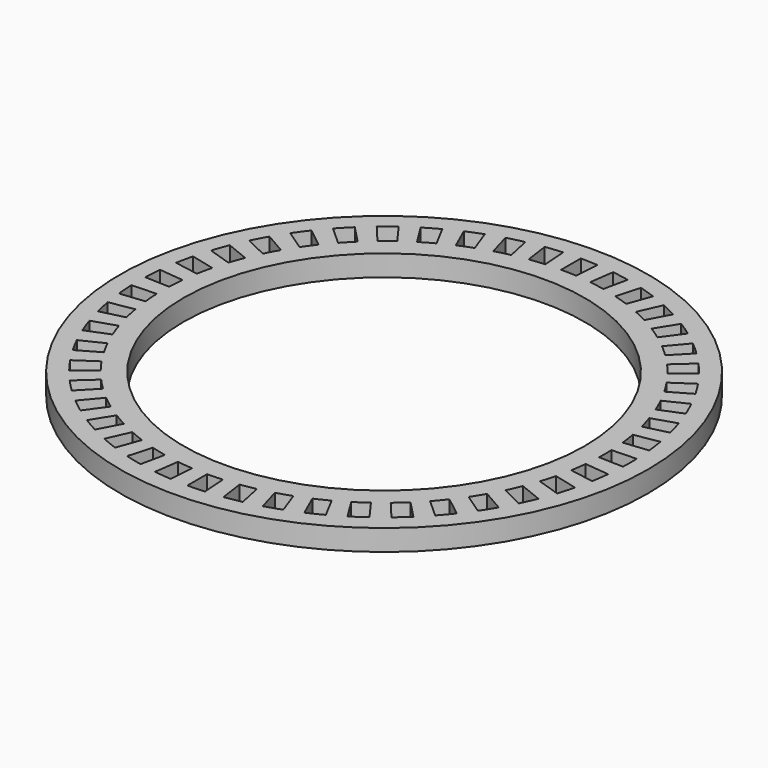
from build123d import *

# Parameters (mm, degrees)
F0_R     = 50
F1_DEPTH = 5
F2_R     = 125
F2_R_2   = 40.44952
F3_DEPTH = 10
F5_DEPTH = 25
F6_R     = 95
F7_DEPTH = 25


with BuildPart() as f1:
    # F0 (on Top) → F1 (new body)
    with BuildSketch(Plane.XY):
        Circle(F0_R)
        Polygon((-10, 30), (0, 30), (10, 30), (10, 10), (30, 10), (30, 0), (30, -10), (10, -10), (10, -30), (0, -30), (-10, -30), (-10, -10), (-30, -10), (-30, 0), (-30, 10), (-10, 10), align=None, mode=Mode.SUBTRACT)
    extrude(amount=F1_DEPTH)

    # F2 (on face) → F3 (join)
    with BuildSketch(Plane.XY.offset(5)):
        Circle(F2_R)
        Circle(F2_R_2, mode=Mode.SUBTRACT)
    extrude(amount=-F3_DEPTH)

    # F4 (on face) → F5 (cut)
    with BuildSketch(Plane.XY.offset(5)):
        with BuildLine():
            Line((0, 116.456337), (0, 104.802647))
            ThreePointArc((0, 104.802647), (3.65756, 104.738804), (7.310663, 104.547353))
            Line((7.310663, 104.547353), (8.123583, 116.172655))
            ThreePointArc((8.123583, 116.172655), (4.064268, 116.385395), (0, 116.456337))
        make_face()
        with BuildLine():
            ThreePointArc((-14.585709, 103.782715), (-10.95486, 104.228527), (-7.310663, 104.547353))
            Line((-7.310663, 104.547353), (-8.123583, 116.172655))
            ThreePointArc((-8.123583, 116.172655), (-12.173002, 115.818377), (-16.20759, 115.322992))
            Line((-16.20759, 115.322992), (-14.585709, 103.782715))
        make_face()
        with BuildLine():
            ThreePointArc((-28.887525, 100.74277), (-25.354055, 101.689561), (-21.789696, 102.512458))
            Line((-21.789696, 102.512458), (-24.212634, 113.911487))
            ThreePointArc((-24.212634, 113.911487), (-28.173338, 112.997086), (-32.099717, 111.945016))
            Line((-32.099717, 111.945016), (-28.887525, 100.74277))
        make_face()
        with BuildLine():
            ThreePointArc((-42.627077, 95.741982), (-39.259763, 97.171322), (-35.844616, 98.482274))
            Line((-35.844616, 98.482274), (-39.830413, 109.433161))
            ThreePointArc((-39.830413, 109.433161), (-43.625312, 107.976436), (-47.36706, 106.388158))
            Line((-47.36706, 106.388158), (-42.627077, 95.741982))
        make_face()
        with BuildLine():
            ThreePointArc((-55.536942, 88.877685), (-52.401324, 90.761755), (-49.201863, 92.535245))
            Line((-49.201863, 92.535245), (-54.672939, 102.824843))
            ThreePointArc((-54.672939, 102.824843), (-58.228169, 100.854147), (-61.712457, 98.760575))
            Line((-61.712457, 98.760575), (-55.536942, 88.877685))
        make_face()
        with BuildLine():
            ThreePointArc((-67.365843, 80.283486), (-64.522952, 82.585613), (-61.60145, 84.787123))
            Line((-61.60145, 84.787123), (-68.451318, 94.215156))
            ThreePointArc((-68.451318, 94.215156), (-71.69768, 91.768846), (-74.856691, 89.21073))
            Line((-74.856691, 89.21073), (-67.365843, 80.283486))
        make_face()
        with BuildLine():
            ThreePointArc((-77.883545, 70.126659), (-75.388715, 72.802036), (-72.802036, 75.388715))
            Line((-72.802036, 75.388715), (-80.897369, 83.771678))
            ThreePointArc((-80.897369, 83.771678), (-83.771678, 80.897369), (-86.543924, 77.9245))
            Line((-86.543924, 77.9245), (-77.883545, 70.126659))
        make_face()
        with BuildLine():
            ThreePointArc((-86.885332, 58.604897), (-84.787123, 61.60145), (-82.585613, 64.522952))
            Line((-82.585613, 64.522952), (-91.768846, 71.69768))
            ThreePointArc((-91.768846, 71.69768), (-94.215156, 68.451318), (-96.546679, 65.121557))
            Line((-96.546679, 65.121557), (-86.885332, 58.604897))
        make_face()
        with BuildLine():
            ThreePointArc((-94.195995, 45.942457), (-92.535245, 49.201863), (-90.761755, 52.401324))
            Line((-90.761755, 52.401324), (-100.854147, 58.228169))
            ThreePointArc((-100.854147, 58.228169), (-102.824843, 54.672939), (-104.670263, 51.051098))
            Line((-104.670263, 51.051098), (-94.195995, 45.942457))
        make_face()
        with BuildLine():
            ThreePointArc((-99.673241, 32.385799), (-98.482274, 35.844616), (-97.171322, 39.259763))
            Line((-97.171322, 39.259763), (-107.976436, 43.625312))
            ThreePointArc((-107.976436, 43.625312), (-109.433161, 39.830413), (-110.756558, 35.986987))
            Line((-110.756558, 35.986987), (-99.673241, 32.385799))
        make_face()
        with BuildLine():
            ThreePointArc((-103.21046, 18.198789), (-102.512458, 21.789696), (-101.689561, 25.354055))
            Line((-101.689561, 25.354055), (-112.997086, 28.173338))
            ThreePointArc((-112.997086, 28.173338), (-113.911487, 24.212634), (-114.687104, 20.222431))
            Line((-114.687104, 20.222431), (-103.21046, 18.198789))
        make_face()
        with BuildLine():
            ThreePointArc((-104.738804, 3.65756), (-104.547353, 7.310663), (-104.228527, 10.95486))
            Line((-104.228527, 10.95486), (-115.818377, 12.173002))
            ThreePointArc((-115.818377, 12.173002), (-116.172655, 8.123583), (-116.385395, 4.064268))
            Line((-116.385395, 4.064268), (-104.738804, 3.65756))
        make_face()
        with BuildLine():
            ThreePointArc((-104.228527, -10.95486), (-104.547353, -7.310663), (-104.738804, -3.65756))
            Line((-104.738804, -3.65756), (-116.385395, -4.064268))
            ThreePointArc((-116.385395, -4.064268), (-116.172655, -8.123583), (-115.818377, -12.173002))
            Line((-115.818377, -12.173002), (-104.228527, -10.95486))
        make_face()
        with BuildLine():
            ThreePointArc((-101.689561, -25.354055), (-102.512458, -21.789696), (-103.21046, -18.198789))
            Line((-103.21046, -18.198789), (-114.687104, -20.222431))
            ThreePointArc((-114.687104, -20.222431), (-113.911487, -24.212634), (-112.997086, -28.173338))
            Line((-112.997086, -28.173338), (-101.689561, -25.354055))
        make_face()
        with BuildLine():
            ThreePointArc((-97.171322, -39.259763), (-98.482274, -35.844616), (-99.673241, -32.385799))
            Line((-99.673241, -32.385799), (-110.756558, -35.986987))
            ThreePointArc((-110.756558, -35.986987), (-109.433161, -39.830413), (-107.976436, -43.625312))
            Line((-107.976436, -43.625312), (-97.171322, -39.259763))
        make_face()
        with BuildLine():
            ThreePointArc((-90.761755, -52.401324), (-92.535245, -49.201863), (-94.195995, -45.942457))
            Line((-94.195995, -45.942457), (-104.670263, -51.051098))
            ThreePointArc((-104.670263, -51.051098), (-102.824843, -54.672939), (-100.854147, -58.228169))
            Line((-100.854147, -58.228169), (-90.761755, -52.401324))
        make_face()
        with BuildLine():
            ThreePointArc((-82.585613, -64.522952), (-84.787123, -61.60145), (-86.885332, -58.604897))
            Line((-86.885332, -58.604897), (-96.546679, -65.121557))
            ThreePointArc((-96.546679, -65.121557), (-94.215156, -68.451318), (-91.768846, -71.69768))
            Line((-91.768846, -71.69768), (-82.585613, -64.522952))
        make_face()
        with BuildLine():
            ThreePointArc((-72.802036, -75.388715), (-75.388715, -72.802036), (-77.883545, -70.126659))
            Line((-77.883545, -70.126659), (-86.543924, -77.9245))
            ThreePointArc((-86.543924, -77.9245), (-83.771678, -80.897369), (-80.897369, -83.771678))
            Line((-80.897369, -83.771678), (-72.802036, -75.388715))
        make_face()
        with BuildLine():
            ThreePointArc((-61.60145, -84.787123), (-64.522952, -82.585613), (-67.365843, -80.283486))
            Line((-67.365843, -80.283486), (-74.856691, -89.21073))
            ThreePointArc((-74.856691, -89.21073), (-71.69768, -91.768846), (-68.451318, -94.215156))
            Line((-68.451318, -94.215156), (-61.60145, -84.787123))
        make_face()
        with BuildLine():
            ThreePointArc((-49.201863, -92.535245), (-52.401324, -90.761755), (-55.536942, -88.877685))
            Line((-55.536942, -88.877685), (-61.712457, -98.760575))
            ThreePointArc((-61.712457, -98.760575), (-58.228169, -100.854147), (-54.672939, -102.824843))
            Line((-54.672939, -102.824843), (-49.201863, -92.535245))
        make_face()
        with BuildLine():
            ThreePointArc((-35.844616, -98.482274), (-39.259763, -97.171322), (-42.627077, -95.741982))
            Line((-42.627077, -95.741982), (-47.36706, -106.388158))
            ThreePointArc((-47.36706, -106.388158), (-43.625312, -107.976436), (-39.830413, -109.433161))
            Line((-39.830413, -109.433161), (-35.844616, -98.482274))
        make_face()
        with BuildLine():
            ThreePointArc((-21.789696, -102.512458), (-25.354055, -101.689561), (-28.887525, -100.74277))
            Line((-28.887525, -100.74277), (-32.099717, -111.945016))
            ThreePointArc((-32.099717, -111.945016), (-28.173338, -112.997086), (-24.212634, -113.911487))
            Line((-24.212634, -113.911487), (-21.789696, -102.512458))
        make_face()
        with BuildLine():
            ThreePointArc((-7.310663, -104.547353), (-10.95486, -104.228527), (-14.585709, -103.782715))
            Line((-14.585709, -103.782715), (-16.20759, -115.322992))
            ThreePointArc((-16.20759, -115.322992), (-12.173002, -115.818377), (-8.123583, -116.172655))
            Line((-8.123583, -116.172655), (-7.310663, -104.547353))
        make_face()
        with BuildLine():
            ThreePointArc((7.310663, -104.547353), (3.65756, -104.738804), (0, -104.802647))
            Line((0, -104.802647), (0, -116.456337))
            ThreePointArc((0, -116.456337), (4.064268, -116.385395), (8.123583, -116.172655))
            Line((8.123583, -116.172655), (7.310663, -104.547353))
        make_face()
        with BuildLine():
            ThreePointArc((21.789696, -102.512458), (18.198789, -103.21046), (14.585709, -103.782715))
            Line((14.585709, -103.782715), (16.20759, -115.322992))
            ThreePointArc((16.20759, -115.322992), (20.222431, -114.687104), (24.212634, -113.911487))
            Line((24.212634, -113.911487), (21.789696, -102.512458))
        make_face()
        with BuildLine():
            ThreePointArc((35.844616, -98.482274), (32.385799, -99.673241), (28.887525, -100.74277))
            Line((28.887525, -100.74277), (32.099717, -111.945016))
            ThreePointArc((32.099717, -111.945016), (35.986987, -110.756558), (39.830413, -109.433161))
            Line((39.830413, -109.433161), (35.844616, -98.482274))
        make_face()
        with BuildLine():
            ThreePointArc((49.201863, -92.535245), (45.942457, -94.195995), (42.627077, -95.741982))
            Line((42.627077, -95.741982), (47.36706, -106.388158))
            ThreePointArc((47.36706, -106.388158), (51.051098, -104.670263), (54.672939, -102.824843))
            Line((54.672939, -102.824843), (49.201863, -92.535245))
        make_face()
        with BuildLine():
            ThreePointArc((61.60145, -84.787123), (58.604897, -86.885332), (55.536942, -88.877685))
            Line((55.536942, -88.877685), (61.712457, -98.760575))
            ThreePointArc((61.712457, -98.760575), (65.121557, -96.546679), (68.451318, -94.215156))
            Line((68.451318, -94.215156), (61.60145, -84.787123))
        make_face()
        with BuildLine():
            ThreePointArc((72.802036, -75.388715), (70.126659, -77.883545), (67.365843, -80.283486))
            Line((67.365843, -80.283486), (74.856691, -89.21073))
            ThreePointArc((74.856691, -89.21073), (77.9245, -86.543924), (80.897369, -83.771678))
            Line((80.897369, -83.771678), (72.802036, -75.388715))
        make_face()
        with BuildLine():
            ThreePointArc((82.585613, -64.522952), (80.283486, -67.365843), (77.883545, -70.126659))
            Line((77.883545, -70.126659), (86.543924, -77.9245))
            ThreePointArc((86.543924, -77.9245), (89.21073, -74.856691), (91.768846, -71.69768))
            Line((91.768846, -71.69768), (82.585613, -64.522952))
        make_face()
        with BuildLine():
            ThreePointArc((90.761755, -52.401324), (88.877685, -55.536942), (86.885332, -58.604897))
            Line((86.885332, -58.604897), (96.546679, -65.121557))
            ThreePointArc((96.546679, -65.121557), (98.760575, -61.712457), (100.854147, -58.228169))
            Line((100.854147, -58.228169), (90.761755, -52.401324))
        make_face()
        with BuildLine():
            ThreePointArc((97.171322, -39.259763), (95.741982, -42.627077), (94.195995, -45.942457))
            Line((94.195995, -45.942457), (104.670263, -51.051098))
            ThreePointArc((104.670263, -51.051098), (106.388158, -47.36706), (107.976436, -43.625312))
            Line((107.976436, -43.625312), (97.171322, -39.259763))
        make_face()
        with BuildLine():
            ThreePointArc((101.689561, -25.354055), (100.74277, -28.887525), (99.673241, -32.385799))
            Line((99.673241, -32.385799), (110.756558, -35.986987))
            ThreePointArc((110.756558, -35.986987), (111.945016, -32.099717), (112.997086, -28.173338))
            Line((112.997086, -28.173338), (101.689561, -25.354055))
        make_face()
        with BuildLine():
            ThreePointArc((104.228527, -10.95486), (103.782715, -14.585709), (103.21046, -18.198789))
            Line((103.21046, -18.198789), (114.687104, -20.222431))
            ThreePointArc((114.687104, -20.222431), (115.322992, -16.20759), (115.818377, -12.173002))
            Line((115.818377, -12.173002), (104.228527, -10.95486))
        make_face()
        with BuildLine():
            ThreePointArc((104.738804, 3.65756), (104.802647, 0), (104.738804, -3.65756))
            Line((104.738804, -3.65756), (116.385395, -4.064268))
            ThreePointArc((116.385395, -4.064268), (116.456337, 0), (116.385395, 4.064268))
            Line((116.385395, 4.064268), (104.738804, 3.65756))
        make_face()
        with BuildLine():
            ThreePointArc((103.21046, 18.198789), (103.782715, 14.585709), (104.228527, 10.95486))
            Line((104.228527, 10.95486), (115.818377, 12.173002))
            ThreePointArc((115.818377, 12.173002), (115.322992, 16.20759), (114.687104, 20.222431))
            Line((114.687104, 20.222431), (103.21046, 18.198789))
        make_face()
        with BuildLine():
            ThreePointArc((99.673241, 32.385799), (100.74277, 28.887525), (101.689561, 25.354055))
            Line((101.689561, 25.354055), (112.997086, 28.173338))
            ThreePointArc((112.997086, 28.173338), (111.945016, 32.099717), (110.756558, 35.986987))
            Line((110.756558, 35.986987), (99.673241, 32.385799))
        make_face()
        with BuildLine():
            ThreePointArc((94.195995, 45.942457), (95.741982, 42.627077), (97.171322, 39.259763))
            Line((97.171322, 39.259763), (107.976436, 43.625312))
            ThreePointArc((107.976436, 43.625312), (106.388158, 47.36706), (104.670263, 51.051098))
            Line((104.670263, 51.051098), (94.195995, 45.942457))
        make_face()
        with BuildLine():
            ThreePointArc((86.885332, 58.604897), (88.877685, 55.536942), (90.761755, 52.401324))
            Line((90.761755, 52.401324), (100.854147, 58.228169))
            ThreePointArc((100.854147, 58.228169), (98.760575, 61.712457), (96.546679, 65.121557))
            Line((96.546679, 65.121557), (86.885332, 58.604897))
        make_face()
        with BuildLine():
            ThreePointArc((77.883545, 70.126659), (80.283486, 67.365843), (82.585613, 64.522952))
            Line((82.585613, 64.522952), (91.768846, 71.69768))
            ThreePointArc((91.768846, 71.69768), (89.21073, 74.856691), (86.543924, 77.9245))
            Line((86.543924, 77.9245), (77.883545, 70.126659))
        make_face()
        with BuildLine():
            ThreePointArc((67.365843, 80.283486), (70.126659, 77.883545), (72.802036, 75.388715))
            Line((72.802036, 75.388715), (80.897369, 83.771678))
            ThreePointArc((80.897369, 83.771678), (77.9245, 86.543924), (74.856691, 89.21073))
            Line((74.856691, 89.21073), (67.365843, 80.283486))
        make_face()
        with BuildLine():
            ThreePointArc((55.536942, 88.877685), (58.604897, 86.885332), (61.60145, 84.787123))
            Line((61.60145, 84.787123), (68.451318, 94.215156))
            ThreePointArc((68.451318, 94.215156), (65.121557, 96.546679), (61.712457, 98.760575))
            Line((61.712457, 98.760575), (55.536942, 88.877685))
        make_face()
        with BuildLine():
            ThreePointArc((42.627077, 95.741982), (45.942457, 94.195995), (49.201863, 92.535245))
            Line((49.201863, 92.535245), (54.672939, 102.824843))
            ThreePointArc((54.672939, 102.824843), (51.051098, 104.670263), (47.36706, 106.388158))
            Line((47.36706, 106.388158), (42.627077, 95.741982))
        make_face()
        with BuildLine():
            ThreePointArc((28.887525, 100.74277), (32.385799, 99.673241), (35.844616, 98.482274))
            Line((35.844616, 98.482274), (39.830413, 109.433161))
            ThreePointArc((39.830413, 109.433161), (35.986987, 110.756558), (32.099717, 111.945016))
            Line((32.099717, 111.945016), (28.887525, 100.74277))
        make_face()
        with BuildLine():
            ThreePointArc((14.585709, 103.782715), (18.198789, 103.21046), (21.789696, 102.512458))
            Line((21.789696, 102.512458), (24.212634, 113.911487))
            ThreePointArc((24.212634, 113.911487), (20.222431, 114.687104), (16.20759, 115.322992))
            Line((16.20759, 115.322992), (14.585709, 103.782715))
        make_face()
    extrude(amount=-F5_DEPTH, mode=Mode.SUBTRACT)

    # F6 (on face) → F7 (cut)
    with BuildSketch(Plane.XY.offset(5)):
        Circle(F6_R)
    extrude(amount=-F7_DEPTH, mode=Mode.SUBTRACT)


solid = f1.part
